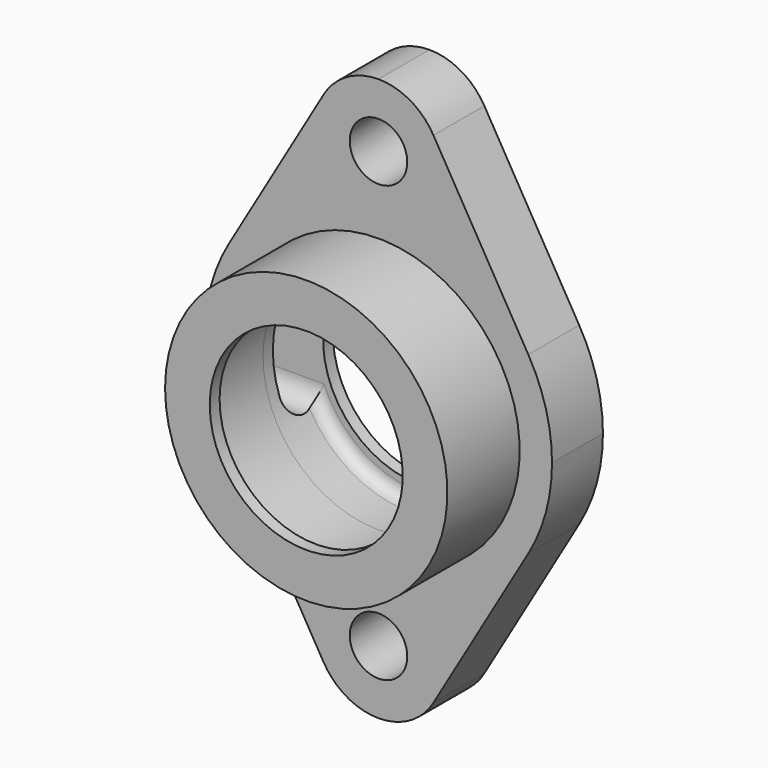
from build123d import *

# Parameters (mm, degrees)
F0_R     = 7.112
F0_R_2   = 23.876
F1_DEPTH = 15.748
F4_R     = 28.575
F5_DEPTH = 12.7
F6_R     = 3.048
F8_DEPTH = 42.927


with BuildPart() as f1:
    # F0 (on Front) → F1 (new body)
    with BuildSketch(Plane.XZ):
        with BuildLine():
            Line((-13.59501, 61.796283), (-37.057366, 21.665481))
            ThreePointArc((-37.057366, 21.665481), (-41.432873, 11.223123), (-42.926, 0))
            ThreePointArc((-42.926, 0), (-41.432873, -11.223123), (-37.057366, -21.665481))
            Line((-37.057366, -21.665481), (-13.59501, -61.796283))
            ThreePointArc((-13.59501, -61.796283), (-7.83677, -67.507595), (0, -69.596))
            ThreePointArc((0, -69.596), (7.83677, -67.507595), (13.59501, -61.796283))
            Line((13.59501, -61.796283), (37.057366, -21.665481))
            ThreePointArc((37.057366, -21.665481), (41.432873, -11.223123), (42.926, 0))
            ThreePointArc((42.926, 0), (41.432873, 11.223123), (37.057366, 21.665481))
            Line((37.057366, 21.665481), (13.59501, 61.796283))
            ThreePointArc((13.59501, 61.796283), (7.83677, 67.507595), (0, 69.596))
            ThreePointArc((0, 69.596), (-7.83677, 67.507595), (-13.59501, 61.796283))
        make_face()
        with Locations((0, -53.848)):
            Circle(F0_R, mode=Mode.SUBTRACT)
        Circle(F0_R_2, mode=Mode.SUBTRACT)
        with Locations((0, 53.848)):
            Circle(F0_R, mode=Mode.SUBTRACT)
    extrude(amount=-F1_DEPTH)

    # F2 (on Top) → F3 (revolve)
    with BuildSketch(Plane.XY):
        with BuildLine():
            Line((-28.575, 0), (-34.925, 0))
            Line((-34.925, 0), (-34.925, -22.352))
            Line((-34.925, -22.352), (-23.876, -22.352))
            Line((-23.876, -22.352), (-23.876, -19.304))
            Line((-23.876, -19.304), (-25.527, -19.304))
            ThreePointArc((-25.527, -19.304), (-27.682261, -18.411261), (-28.575, -16.256))
            Line((-28.575, -16.256), (-28.575, 0))
        make_face()
    revolve(axis=Axis((0, -12.095788, 0), (0, -1, 0)))

    # F4 (on face) → F5 (cut)
    with BuildSketch(Plane.XZ):
        Circle(F4_R)
    extrude(amount=-F5_DEPTH, mode=Mode.SUBTRACT)

    # F6
    f6_edges = [f1.edges().sort_by_distance(p)[0] for p in [
        (-28.575, 12.7, 0),
    ]]
    fillet(f6_edges, radius=F6_R)

    # F7 (on Right) → F8 (cut, through all)
    with BuildSketch(Plane.YZ):
        with BuildLine():
            Line((3.048, 9.652), (3.048, 0))
            Line((3.048, 0), (3.048, -9.652))
            ThreePointArc((3.048, -9.652), (7.874, -14.478), (12.7, -9.652))
            Line((12.7, -9.652), (12.7, 0))
            Line((12.7, 0), (12.7, 9.652))
            ThreePointArc((12.7, 9.652), (7.874, 14.478), (3.048, 9.652))
        make_face()
    extrude(amount=-F8_DEPTH, mode=Mode.SUBTRACT)


solid = f1.part
